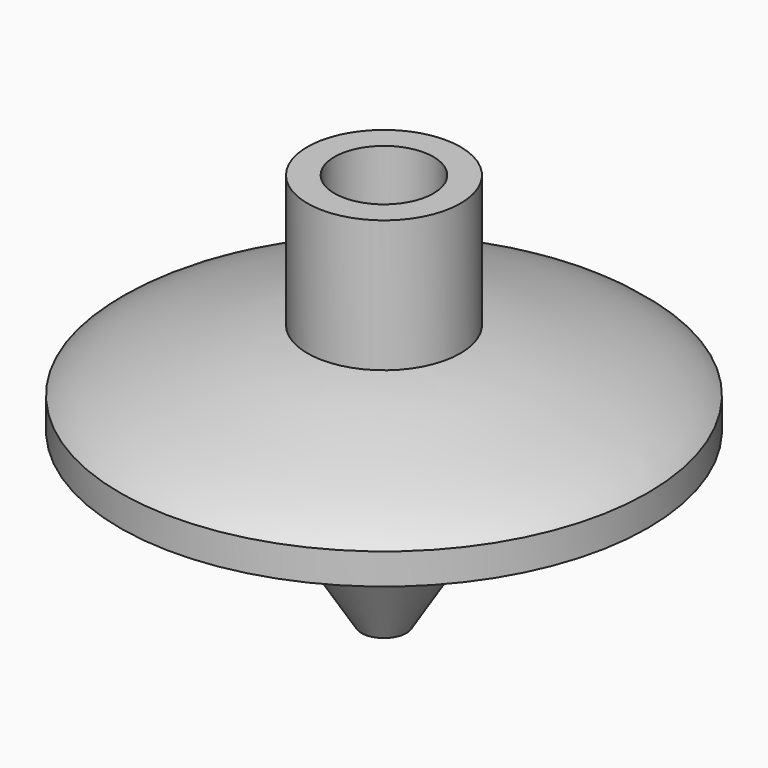
from build123d import *

# Parameters (mm, degrees)
F2_R     = 4.7625
F3_DEPTH = 9.525
F4_R     = 1.5875
F5_DEPTH = 19.812


with BuildPart() as f1:
    # F0 (on Front) → F1 (revolve)
    with BuildSketch(Plane.XZ):
        with BuildLine():
            add(Edge.make_bspline(
                [(7.366, 25.4), (9.8036438765, 25.126718384), (14.9576453354, 23.9940702967), (23.5182465885, 21.2743691277), (25.4, 19.4404423237)],
                knots=[0, 0, 0, 0, 0.4619708182, 1, 1, 1, 1], degree=3))
            Line((7.366, 25.4), (7.366, 38.1))
            Line((7.366, 38.1), (0, 38.1))
            Line((0, 38.1), (0, 0))
            Line((0, 0), (2.1578229498, 0))
            Line((2.1578229498, 0), (7.5349872932, 8.6558889598))
            Line((7.5349872932, 8.6558889598), (25.4, 16.4627786726))
            Line((25.4, 16.4627786726), (25.4, 19.4404423237))
        make_face()
    revolve(axis=Axis((0, 0, 19.05), (0, 0, -1)))

    # F2 (on face) → F3 (cut)
    with BuildSketch(Plane.XY.offset(38.1)):
        Circle(F2_R)
    extrude(amount=-F3_DEPTH, mode=Mode.SUBTRACT)

    # F4 (on face) → F5 (cut)
    with BuildSketch(Plane(origin=(0, 0, 0), x_dir=(1, 0, 0), z_dir=(0, 0, -1))):
        Circle(F4_R)
    extrude(amount=-F5_DEPTH, mode=Mode.SUBTRACT)


solid = f1.part
